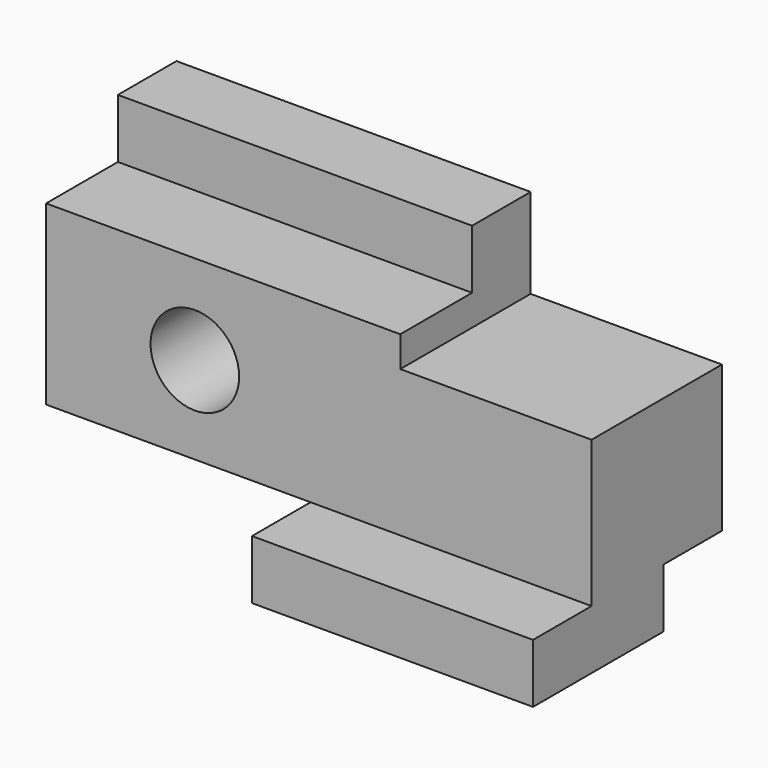
from build123d import *

# Parameters (mm, degrees)
F0_W      = 117.348
F0_H      = 63.5
F1_DEPTH  = 50.8
F2_W      = 41.148
F2_H      = 19.304
F3_DEPTH  = 50.801
F4_W      = 56.896
F4_H      = 12.7
F5_DEPTH  = 50.801
F6_W      = 15.748
F6_H      = 12.7
F7_DEPTH  = 117.349
F8_W      = 15.748
F8_H      = 19.304
F8_H_2    = 31.496
F9_DEPTH  = 117.349
F10_W     = 19.304
F10_H     = 12.7
F11_DEPTH = 76.201
F12_R     = 9.525
F13_DEPTH = 35.053


with BuildPart() as f1:
    # F0 (on Front) → F1 (new body)
    with BuildSketch(Plane.XZ):
        Rectangle(F0_W, F0_H)
    extrude(amount=F1_DEPTH)

    # F2 (on Front) → F3 (cut, through all)
    with BuildSketch(Plane.XZ):
        with Locations((38.1, 22.098)):
            Rectangle(F2_W, F2_H)
    extrude(amount=F3_DEPTH, mode=Mode.SUBTRACT)

    # F4 (on Front) → F5 (cut, through all)
    with BuildSketch(Plane.XZ):
        with Locations((-30.226, -25.4)):
            Rectangle(F4_W, F4_H)
    extrude(amount=F5_DEPTH, mode=Mode.SUBTRACT)

    # F6 (on face) → F7 (cut, through all)
    with BuildSketch(Plane.YZ.offset(58.674)):
        with Locations((-7.874, -25.4)):
            Rectangle(F6_W, F6_H)
    extrude(amount=-F7_DEPTH, mode=Mode.SUBTRACT)

    # F8 (on face) → F9 (cut, through all)
    with BuildSketch(Plane.YZ.offset(58.674)):
        with Locations((-42.926, 22.098)):
            Rectangle(F8_W, F8_H)
        with Locations((-42.926, -3.302)):
            Rectangle(F8_W, F8_H_2)
    extrude(amount=-F9_DEPTH, mode=Mode.SUBTRACT)

    # F10 (on face) → F11 (cut, through all)
    with BuildSketch(Plane.YZ.offset(17.526)):
        with Locations((-25.4, 25.4)):
            Rectangle(F10_W, F10_H)
    extrude(amount=-F11_DEPTH, mode=Mode.SUBTRACT)

    # F12 (on face) → F13 (cut, through all)
    with BuildSketch(Plane.XZ.offset(35.052)):
        with Locations((-26.67, -0.254)):
            Circle(F12_R)
    extrude(amount=-F13_DEPTH, mode=Mode.SUBTRACT)


solid = f1.part
